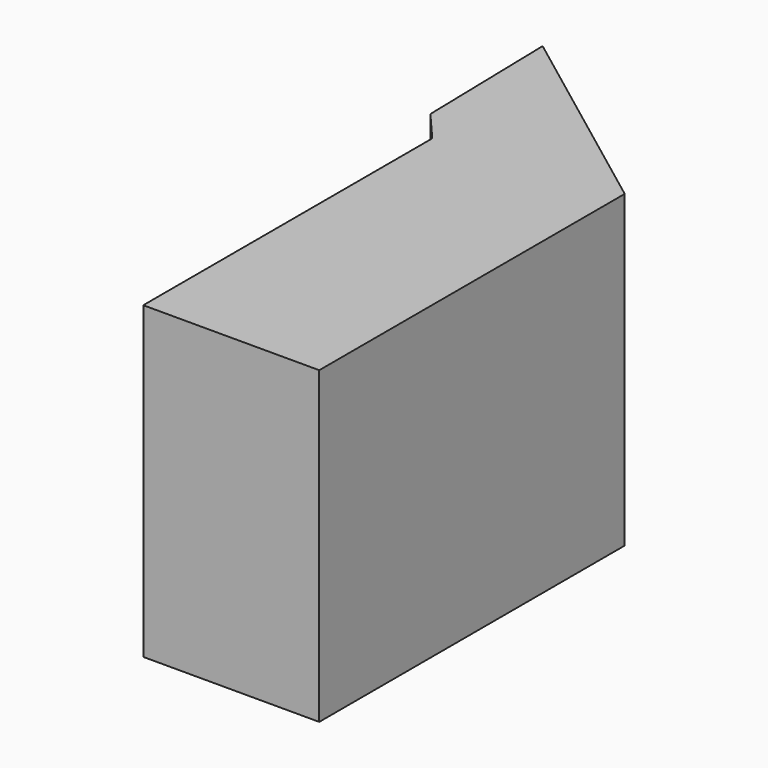
from build123d import *

# Parameters (mm, degrees)
F1_DEPTH = 914.4
F2_W     = 426.72
F2_H     = 609.6
F2_H_2   = 152.4
F3_DEPTH = 30.48
F4_W     = 15.24
F4_H     = 121.92
F5_DEPTH = 30.48


with BuildPart() as f1:
    # F0 (on Top) → F1 (new body)
    with BuildSketch(Plane.XY):
        Polygon((318.431516, 193.019261), (-290.511489, 651.093946), (-280.741865, 224.485797), (-201.23198, 132.059261), (-201.23198, -934.740739), (318.431516, -934.740739), align=None)
    extrude(amount=F1_DEPTH)

    # F2 (on face) → F3 (join)
    with BuildSketch(Plane(origin=(-201.23198, 0, 0), x_dir=(0, -1, 0), z_dir=(-1, 0, 0))):
        with Locations((145.308739, 396.24)):
            Rectangle(F2_W, F2_H)
        with Locations((663.468739, 396.24)):
            Rectangle(F2_W, F2_H)
        with Locations((145.308739, 807.72)):
            Rectangle(F2_W, F2_H_2)
        with Locations((663.468739, 807.72)):
            Rectangle(F2_W, F2_H_2)
    extrude(amount=F3_DEPTH)

    # F4 (on face) → F5 (join)
    with BuildSketch(Plane(origin=(-231.71198, 0, 0), x_dir=(0, -1, 0), z_dir=(-1, 0, 0))):
        with Locations((329.712739, 470.0016)):
            Rectangle(F4_W, F4_H)
        with Locations((479.064739, 470.0016)):
            Rectangle(F4_W, F4_H)
    extrude(amount=F5_DEPTH)


solid = f1.part
